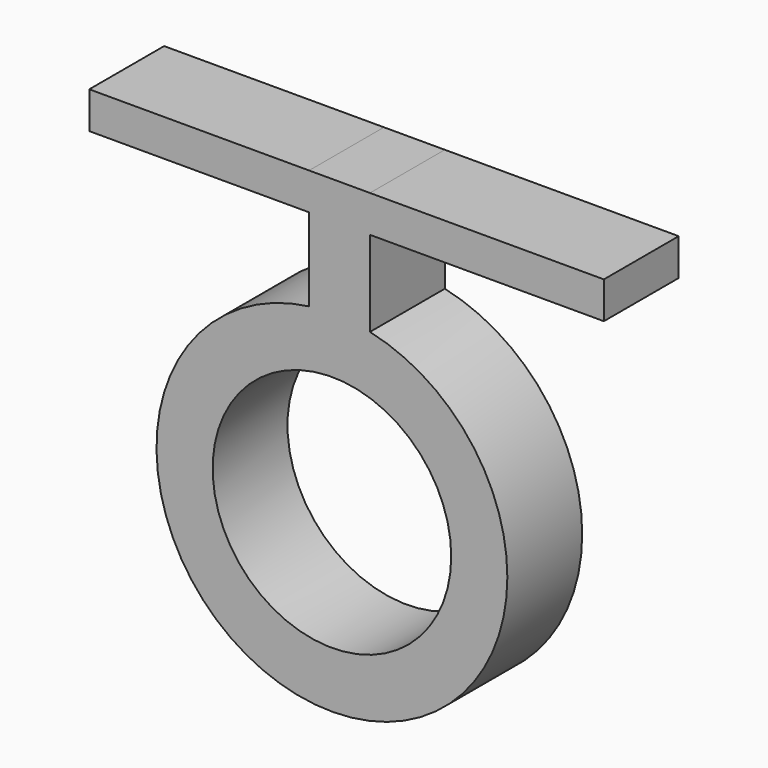
from build123d import *

# Parameters (mm, degrees)
F0_R          = 3.75
F1_DEPTH      = 2
F2_R          = 2.55
F3_DEPTH      = 25
F4_R          = 2.55
F5_DEPTH      = 25
F6_W          = 1.301092
F6_H          = 2.819048
F7_DEPTH      = 2
F8_W          = 2
F8_H          = 0.787675
F9_DEPTH      = 5
F9_DEPTH_BACK = 6


with BuildPart() as f1:
    # F0 (on Front) → F1 (new body)
    with BuildSketch(Plane.XZ):
        Circle(F0_R)
    extrude(amount=F1_DEPTH)

    # F2 (on Front) → F3 (cut)
    with BuildSketch(Plane.XZ):
        Circle(F2_R)
    extrude(amount=-F3_DEPTH, mode=Mode.SUBTRACT)

    # F4 (on face) → F5 (cut)
    with BuildSketch(Plane.XZ.offset(2)):
        Circle(F4_R)
    extrude(amount=-F5_DEPTH, mode=Mode.SUBTRACT)

    # F6 (on face) → F7 (join)
    with BuildSketch(Plane(origin=(0, 0, 0), x_dir=(-1, 0, 0), z_dir=(0, 1, 0))):
        with Locations((-0.162579, 4.866066)):
            Rectangle(F6_W, F6_H)
    extrude(amount=-F7_DEPTH)

    # F8 (on face) → F9 (join, two sides)
    with BuildSketch(Plane.YZ.offset(0.813125)) as f9_sk:
        with Locations((-1, 5.881752)):
            Rectangle(F8_W, F8_H)
    extrude(amount=F9_DEPTH)
    extrude(f9_sk.sketch, amount=-F9_DEPTH_BACK)


solid = f1.part
